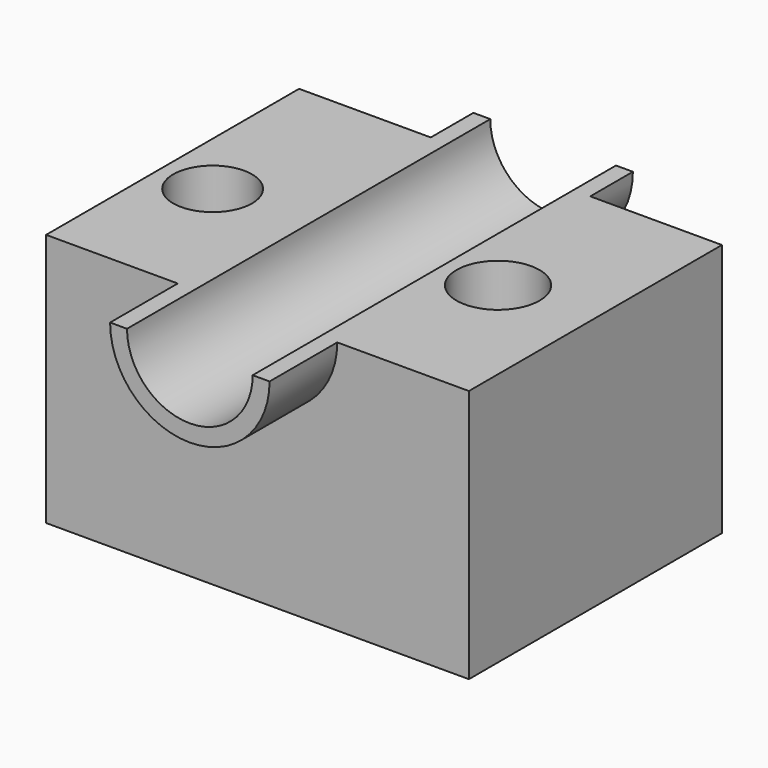
from build123d import *

# Parameters (mm, degrees)
F0_W     = 127
F0_H     = 76.2
F1_DEPTH = 94.996
F3_DEPTH = 25.4
F4_DEPTH = 115.824
F5_DEPTH = 110.998
F6_R     = 11.8361581928
F7_DEPTH = 300.736
F8_R     = 12.4713083384
F9_DEPTH = 188.468


with BuildPart() as f1:
    # F0 (on Front) → F1 (new body)
    with BuildSketch(Plane.XZ):
        with Locations((2.9599239826, 4.2708883941)):
            Rectangle(F0_W, F0_H)
    extrude(amount=F1_DEPTH)

    # F2 (on face) → F3 (join)
    with BuildSketch(Plane.XZ.offset(94.996)):
        with BuildLine():
            Line((26.9120044817, 42.3708883941), (21.8338499293, 42.3708883941))
            ThreePointArc((21.8338499293, 42.3708883941), (2.9599239826, 23.4969624475), (-15.914001964, 42.3708883941))
            Line((-15.914001964, 42.3708883941), (-20.9921565165, 42.3708883941))
            ThreePointArc((-20.9921565165, 42.3708883941), (2.9599239826, 18.418807895), (26.9120044817, 42.3708883941))
        make_face()
    extrude(amount=F3_DEPTH)

    # F4 (cut): a face of the model
    f4_faces = [f1.faces().sort_by_distance(p)[0] for p in [
        (2.9599239826, -94.996, 34.3605454342),
    ]]
    extrude(f4_faces, amount=-F4_DEPTH, mode=Mode.SUBTRACT)

    # F2 (on face) → F5 (join)
    with BuildSketch(Plane.XZ.offset(94.996)):
        with BuildLine():
            Line((26.9120044817, 42.3708883941), (21.8338499293, 42.3708883941))
            ThreePointArc((21.8338499293, 42.3708883941), (2.9599239826, 23.4969624475), (-15.914001964, 42.3708883941))
            Line((-15.914001964, 42.3708883941), (-20.9921565165, 42.3708883941))
            ThreePointArc((-20.9921565165, 42.3708883941), (2.9599239826, 18.418807895), (26.9120044817, 42.3708883941))
        make_face()
    extrude(amount=-F5_DEPTH)

    # F6 (on face) → F7 (cut)
    with BuildSketch(Plane.XY.offset(42.3708883941)):
        with Locations((-44.6284934878, -52.3529723287)):
            Circle(F6_R)
    extrude(amount=-F7_DEPTH, mode=Mode.SUBTRACT)

    # F8 (on face) → F9 (cut)
    with BuildSketch(Plane.XY.offset(42.3708883941)):
        with Locations((38.2470600307, -48.7860329449)):
            Circle(F8_R)
    extrude(amount=-F9_DEPTH, mode=Mode.SUBTRACT)


solid = f1.part
